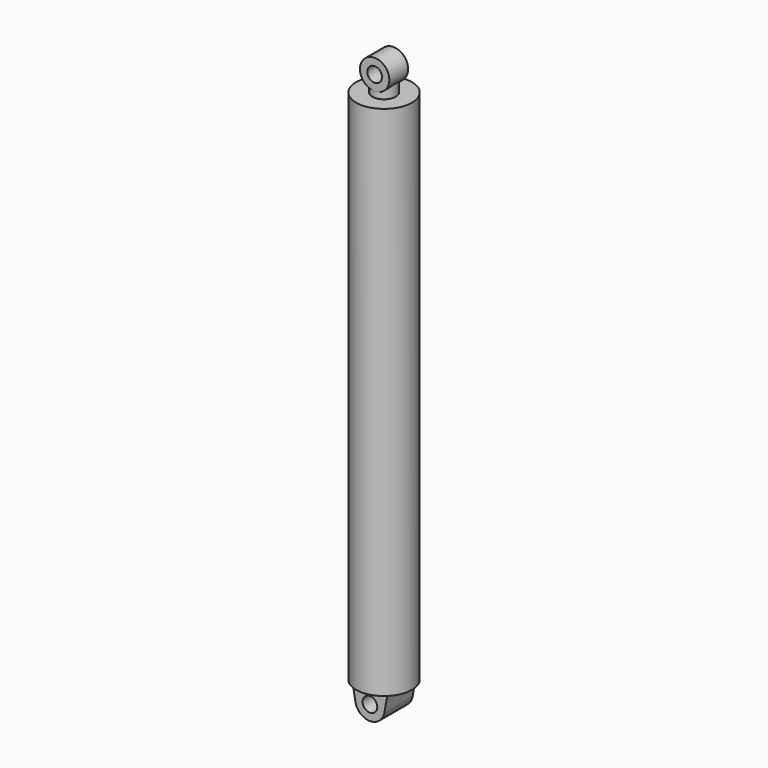
from build123d import *

# Parameters (mm, degrees)
F2_R     = 15.875
F3_DEPTH = 38.1
F6_R     = 31.75
F6_R_2   = 15.875
F7_DEPTH = 25.4


with BuildPart() as f1:
    # F0 (on Front) → F1 (revolve)
    with BuildSketch(Plane.XZ):
        Polygon((60.325, 0), (60.325, 1117.6), (25.4, 1117.6), (25.4, 1092.2), (50.8, 1092.2), (50.8, 76.2), (0, 76.2), (0, 0), align=None)
    revolve(axis=Axis((0, 0, 38.1), (0, 0, -1)))

    # F2 (on Front) → F3 (join, symmetric)
    with BuildSketch(Plane.XZ):
        with BuildLine():
            Line((-38.1, 0), (-31.229508, -37.47541))
            ThreePointArc((-31.229508, -37.47541), (0, -63.5), (31.229508, -37.47541))
            Line((31.229508, -37.47541), (38.1, 0))
            Line((38.1, 0), (-38.1, 0))
        make_face()
        with Locations((0, -31.75)):
            Circle(F2_R, mode=Mode.SUBTRACT)
    extrude(amount=F3_DEPTH, both=True)


with BuildPart() as f5:
    # F4 (on Front) → F5 (revolve)
    with BuildSketch(Plane.XZ):
        Polygon((0, 1143), (-25.4, 1143), (-25.4, 127), (-50.8, 127), (-50.8, 101.6), (0, 101.6), align=None)
    revolve(axis=Axis((0, 0, 622.3), (0, 0, 1)))

    # F6 (on Front) → F7 (join, symmetric)
    with BuildSketch(Plane.XZ):
        with Locations((0, 1162.05)):
            Circle(F6_R)
        with Locations((0, 1162.05)):
            Circle(F6_R_2, mode=Mode.SUBTRACT)
    extrude(amount=F7_DEPTH, both=True)


with BuildPart() as f8_1:
    # F8: copy of F1
    add(f1.part)


solid = Compound([f1.part, f5.part])
